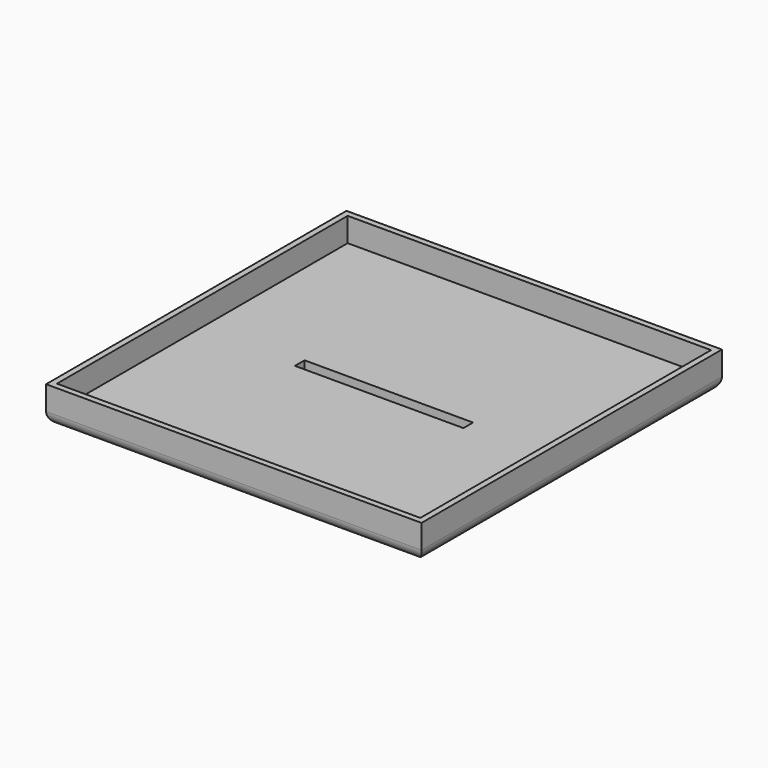
from build123d import *

# Parameters (mm, degrees)
F0_W     = 156
F0_H     = 156
F1_DEPTH = 15
F2_W     = 151
F2_H     = 151
F3_DEPTH = 10
F4_R     = 5
F5_W     = 70
F5_H     = 5
F6_DEPTH = 5


with BuildPart() as f1:
    # F0 (on Top) → F1 (new body)
    with BuildSketch(Plane.XY):
        Rectangle(F0_W, F0_H)
    extrude(amount=F1_DEPTH)

    # F2 (on face) → F3 (cut)
    with BuildSketch(Plane.XY.offset(15)):
        Rectangle(F2_W, F2_H)
    extrude(amount=-F3_DEPTH, mode=Mode.SUBTRACT)

    # F4
    f4_edges = [f1.edges().sort_by_distance(p)[0] for p in [
        (78, 0, 0),
        (0, -78, 0),
        (-78, 0, 0),
        (0, 78, 0),
    ]]
    fillet(f4_edges, radius=F4_R)

    # F5 (on face) → F6 (cut)
    with BuildSketch(Plane(origin=(0, 0, 0), x_dir=(1, 0, 0), z_dir=(0, 0, -1))):
        Rectangle(F5_W, F5_H)
    extrude(amount=-F6_DEPTH, mode=Mode.SUBTRACT)


solid = f1.part
